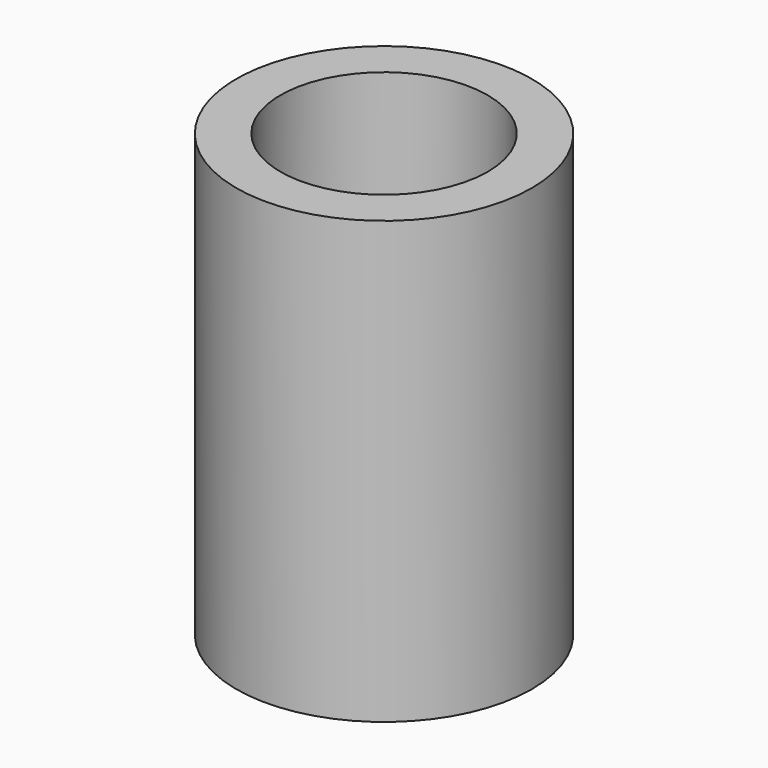
from build123d import *

# Parameters (mm, degrees)
SKETCH_R   = 6.7
SKETCH_R_2 = 4.7
PAD_DEPTH  = 20


with BuildPart() as part:
    # Sketch → Pad (new body)
    with BuildSketch(Plane.XY):
        Circle(SKETCH_R)
        Circle(SKETCH_R_2, mode=Mode.SUBTRACT)
    extrude(amount=PAD_DEPTH)


solid = part.part
